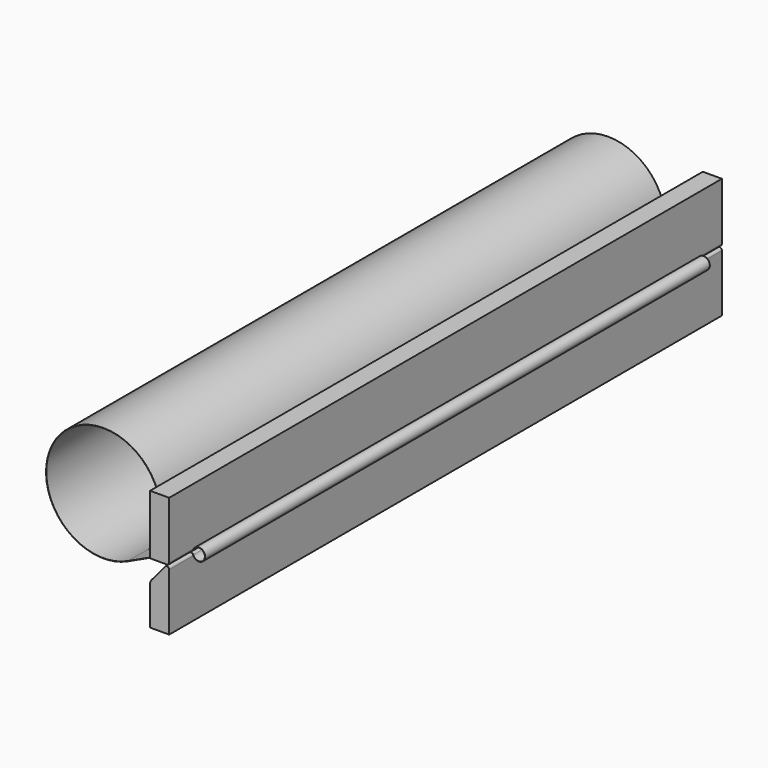
from build123d import *

# Parameters (mm, degrees)
F1_DEPTH      = 210
F3_DEPTH      = 220
F3_DEPTH_BACK = 10


with BuildPart() as f1:
    # F0 (on Front) → F1 (new body)
    with BuildSketch(Plane.XZ):
        with BuildLine():
            ThreePointArc((0.701482, 0.734626), (0.549755, 0.489834), (0.316964, 0.320269))
            Line((0.316964, 0.320269), (-21.053975, -9.645163))
            ThreePointArc((-21.053975, -9.645163), (-41.020889, 22.483061), (-14.003665, -3.992778))
            Line((-14.003665, -3.992778), (-13.94326, -4.039229))
            ThreePointArc((-13.94326, -4.039229), (-41.068553, 22.542514), (-21.021772, -9.714224))
            Line((-21.021772, -9.714224), (0.349167, 0.251209))
            ThreePointArc((0.349167, 0.251209), (0.60561, 0.438001), (0.772752, 0.707664))
            ThreePointArc((0.772752, 0.707664), (4.64337, 0), (0.772752, -0.707664))
            ThreePointArc((0.772752, -0.707664), (0.13834, -0.185464), (-0.632906, -0.468929))
            Line((-0.632906, -0.468929), (-5.190461, -5.900412))
            ThreePointArc((-5.190461, -5.900412), (-5.55099, -6.524865), (-5.6762, -7.234968))
            Line((-5.6762, -7.234968), (-5.6762, -11.373278))
            Line((-5.6762, -11.373278), (-5.6, -11.373278))
            Line((-5.6, -11.373278), (-5.6, -7.234968))
            ThreePointArc((-5.6, -7.234968), (-5.479385, -6.550927), (-5.132089, -5.949392))
            Line((-5.132089, -5.949392), (-0.574533, -0.517909))
            ThreePointArc((-0.574533, -0.517909), (0.125581, -0.260588), (0.701482, -0.734626))
            ThreePointArc((0.701482, -0.734626), (4.71957, 0), (0.701482, 0.734626))
        make_face()
    extrude(amount=F1_DEPTH)


with BuildPart() as f3:
    # F2 (on Front) → F3 (new body, two sides)
    with BuildSketch(Plane.XZ) as f3_sk:
        with BuildLine():
            Line((-5.6, 0.25), (0, 0.25))
            ThreePointArc((0, 0.25), (0.53033, 0.46967), (0.75, 1))
            Line((0.75, 1), (0.75, 20.05))
            Line((0.75, 20.05), (-5.6, 20.05))
            Line((-5.6, 20.05), (-5.6, 0.25))
        make_face()
        with BuildLine():
            ThreePointArc((-0.574533, -0.517909), (-0.256515, -1.704769), (0.75, -1))
            ThreePointArc((0.75, -1), (0.256515, -0.295231), (-0.574533, -0.517909))
        make_face()
        with BuildLine():
            Line((0.75, -20.05), (0.75, -1))
            ThreePointArc((0.75, -1), (-0.256515, -1.704769), (-0.574533, -0.517909))
            Line((-0.574533, -0.517909), (-5.132089, -5.949392))
            ThreePointArc((-5.132089, -5.949392), (-5.479385, -6.550927), (-5.6, -7.234968))
            Line((-5.6, -7.234968), (-5.6, -20.05))
            Line((-5.6, -20.05), (0.75, -20.05))
        make_face()
    extrude(amount=F3_DEPTH)
    extrude(f3_sk.sketch, amount=-F3_DEPTH_BACK)


solid = Compound([f1.part, f3.part])
